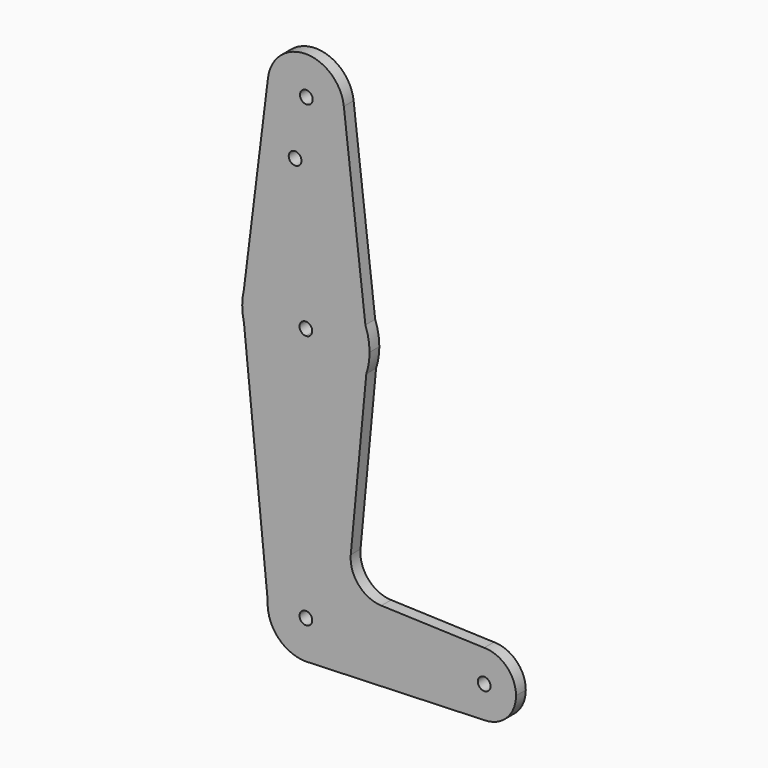
from build123d import *

# Parameters (mm, degrees)
F0_R     = 1.5875
F1_DEPTH = 3.048


with BuildPart() as f1:
    # F0 (on Front) → F1 (new body)
    with BuildSketch(Plane.XZ):
        with BuildLine():
            ThreePointArc((1.5875, 0), (1.122532, 1.122532), (0, 1.5875))
            ThreePointArc((0, 1.5875), (-1.122532, -1.122532), (1.5875, 0))
        make_face()
        with BuildLine():
            ThreePointArc((0.677344, -9.500886), (6.970557, -6.491299), (9.525, 0))
            ThreePointArc((9.525, 0), (6.735192, 6.735192), (0, 9.525))
            ThreePointArc((0, 9.525), (-6.534492, 6.930082), (-9.50857, 0.559208))
            ThreePointArc((-9.50857, 0.559208), (-6.930082, -6.534492), (0, -9.525))
            Line((0, -9.525), (0.677344, -9.500886))
        make_face()
        with BuildLine():
            ThreePointArc((1.5875, 0), (-1.122532, -1.122532), (0, 1.5875))
            ThreePointArc((0, 1.5875), (1.122532, 1.122532), (1.5875, 0))
        make_face(mode=Mode.SUBTRACT)
        with BuildLine():
            ThreePointArc((0, 9.525), (6.735192, 6.735192), (9.525, 0))
            ThreePointArc((9.525, 0), (6.970557, -6.491299), (0.677344, -9.500886))
            Line((0.677344, -9.500886), (44.732405, -7.932475))
            ThreePointArc((44.732405, -7.932475), (36.513756, -0.141225), (44.45, 7.9375))
            Line((44.45, 7.9375), (18.817909, 8.852932))
            ThreePointArc((18.817909, 8.852932), (13.12642, 11.553818), (11.18688, 17.547649))
            Line((11.18688, 17.547649), (15.064665, 58.492855))
            ThreePointArc((15.064665, 58.492855), (9.28782, 50.625528), (0, 47.625))
            Line((0, 47.625), (0, 9.525))
        make_face()
        with BuildLine():
            ThreePointArc((-9.50857, 0.559208), (-6.534492, 6.930082), (0, 9.525))
            Line((0, 9.525), (0, 47.625))
            ThreePointArc((0, 47.625), (-9.835501, 51.038918), (-15.440753, 59.812348))
            Line((-15.440753, 59.812348), (-9.50857, 0.559208))
        make_face()
        with BuildLine():
            ThreePointArc((0, -9.525), (0.338886, -9.51897), (0.677344, -9.500886))
            Line((0.677344, -9.500886), (0, -9.525))
        make_face()
        with BuildLine():
            Line((0, 61.9125), (0, 47.625))
            ThreePointArc((0, 47.625), (9.28782, 50.625528), (15.064665, 58.492855))
            ThreePointArc((15.064665, 58.492855), (15.671107, 60.963854), (15.875, 63.5))
            ThreePointArc((15.875, 63.5), (15.613359, 66.370305), (14.83706, 69.145998))
            ThreePointArc((14.83706, 69.145998), (9.0107, 76.569924), (0, 79.375))
            Line((0, 79.375), (0, 65.0875))
            ThreePointArc((0, 65.0875), (1.122532, 64.622532), (1.5875, 63.5))
            ThreePointArc((1.5875, 63.5), (1.122532, 62.377468), (0, 61.9125))
        make_face()
        with BuildLine():
            ThreePointArc((-15.440753, 59.812348), (-9.835501, 51.038918), (0, 47.625))
            Line((0, 47.625), (0, 61.9125))
            ThreePointArc((0, 61.9125), (-1.5875, 63.5), (0, 65.0875))
            Line((0, 65.0875), (0, 79.375))
            ThreePointArc((0, 79.375), (-9.835501, 75.961082), (-15.440753, 67.187652))
            ThreePointArc((-15.440753, 67.187652), (-15.875, 63.5), (-15.440753, 59.812348))
        make_face()
        with BuildLine():
            ThreePointArc((44.45, 7.9375), (36.513756, -0.141225), (44.732405, -7.932475))
            ThreePointArc((44.732405, -7.932475), (50.161633, -5.51191), (52.3875, 0))
            ThreePointArc((52.3875, 0), (50.06266, 5.61266), (44.45, 7.9375))
        make_face()
        with Locations((44.45, 0)):
            Circle(F0_R, mode=Mode.SUBTRACT)
        with BuildLine():
            Line((-9.452585, 115.472291), (-15.440753, 67.187652))
            ThreePointArc((-15.440753, 67.187652), (-9.835501, 75.961082), (0, 79.375))
            ThreePointArc((0, 79.375), (9.0107, 76.569924), (14.83706, 69.145998))
            Line((14.83706, 69.145998), (9.461313, 115.399625))
            ThreePointArc((9.461313, 115.399625), (9.509065, 114.850734), (9.525, 114.3))
            ThreePointArc((9.525, 114.3), (-0.587263, 104.793121), (-9.452585, 115.472291))
        make_face()
        with Locations((-2.690725, 100.0252)):
            Circle(F0_R, mode=Mode.SUBTRACT)
        with BuildLine():
            ThreePointArc((9.461313, 115.399625), (0.036594, 123.82493), (-9.452585, 115.472291))
            ThreePointArc((-9.452585, 115.472291), (-0.587263, 104.793121), (9.525, 114.3))
            ThreePointArc((9.525, 114.3), (9.509065, 114.850734), (9.461313, 115.399625))
        make_face()
        with Locations((0.111441, 114.374639)):
            Circle(F0_R, mode=Mode.SUBTRACT)
    extrude(amount=F1_DEPTH)


solid = f1.part
